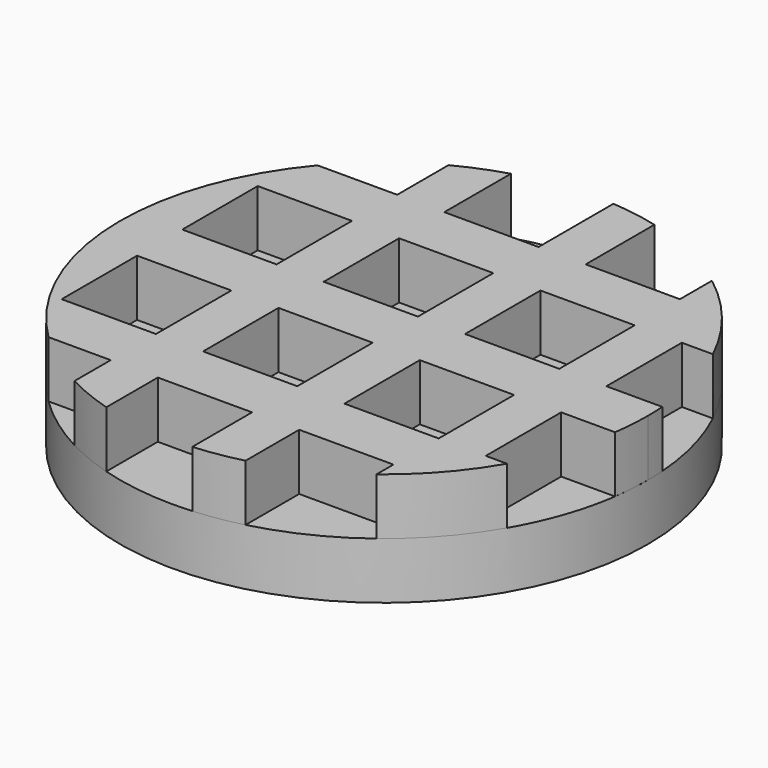
from build123d import *

# Parameters (mm, degrees)
F0_R     = 14
F1_DEPTH = 3
F2_W     = 5
F2_H     = 5
F3_DEPTH = 3


with BuildPart() as f1:
    # F0 (on Top) → F1 (new body)
    with BuildSketch(Plane.XY):
        Circle(F0_R)
    extrude(amount=F1_DEPTH)

    # F2 (on face) → F3 (join)
    with BuildSketch(Plane.XY.offset(3)):
        with BuildLine():
            ThreePointArc((-4, 13.416408), (-5.274559, 12.968386), (-6.5, 12.399597))
            Line((-6.5, 12.399597), (-6.5, 9))
            Line((-6.5, 9), (-10.723805, 9))
            ThreePointArc((-10.723805, 9), (-13.983408, -0.681394), (-9.797959, -10))
            Line((-9.797959, -10), (-6.5, -10))
            Line((-6.5, -10), (-6.5, -12.399597))
            ThreePointArc((-6.5, -12.399597), (-5.274559, -12.968386), (-4, -13.416408))
            Line((-4, -13.416408), (-4, -10))
            Line((-4, -10), (1, -10))
            Line((1, -10), (1, -13.96424))
            ThreePointArc((1, -13.96424), (2.259265, -13.816502), (3.5, -13.555442))
            Line((3.5, -13.555442), (3.5, -10))
            Line((3.5, -10), (8.5, -10))
            Line((8.5, -10), (8.5, -11.124298))
            ThreePointArc((8.5, -11.124298), (10.516343, -9.241565), (12.124356, -7))
            Line((12.124356, -7), (11, -7))
            Line((11, -7), (11, -2))
            Line((11, -2), (13.856406, -2))
            ThreePointArc((13.856406, -2), (13.964055, -1.002574), (14, 0))
            ThreePointArc((14, 0), (13.991057, 0.50032), (13.96424, 1))
            Line((13.96424, 1), (11, 1))
            Line((11, 1), (11, 6))
            Line((11, 6), (12.649111, 6))
            ThreePointArc((12.649111, 6), (10.880525, 8.809891), (8.5, 11.124298))
            Line((8.5, 11.124298), (8.5, 9))
            Line((8.5, 9), (3.5, 9))
            Line((3.5, 9), (3.5, 13.555442))
            ThreePointArc((3.5, 13.555442), (2.259265, 13.816502), (1, 13.96424))
            Line((1, 13.96424), (1, 9))
            Line((1, 9), (-4, 9))
            Line((-4, 9), (-4, 13.416408))
        make_face()
        with Locations((-9, -4.5)):
            Rectangle(F2_W, F2_H, mode=Mode.SUBTRACT)
        with Locations((-1.5, -4.5)):
            Rectangle(F2_W, F2_H, mode=Mode.SUBTRACT)
        with Locations((-9, 3.5)):
            Rectangle(F2_W, F2_H, mode=Mode.SUBTRACT)
        with Locations((-1.5, 3.5)):
            Rectangle(F2_W, F2_H, mode=Mode.SUBTRACT)
        with Locations((6, -4.5)):
            Rectangle(F2_W, F2_H, mode=Mode.SUBTRACT)
        with Locations((6, 3.5)):
            Rectangle(F2_W, F2_H, mode=Mode.SUBTRACT)
    extrude(amount=F3_DEPTH)


solid = f1.part
